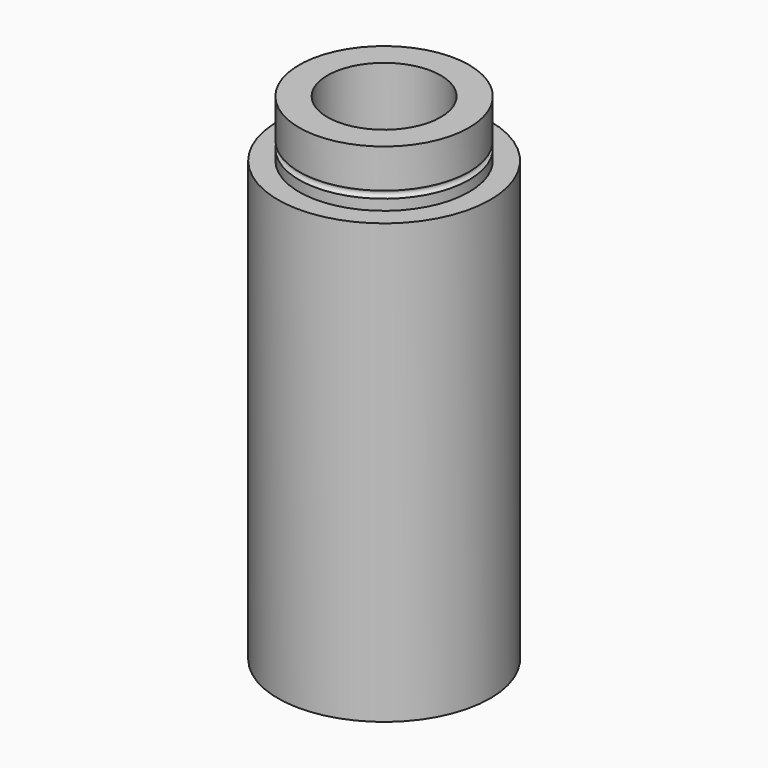
from build123d import *


with BuildPart() as f1:
    # F0 (on Front) → F1 (revolve)
    with BuildSketch(Plane.XZ):
        with BuildLine():
            Line((7.5, -35), (7.5, -4))
            Line((7.5, -4), (6, -4))
            Line((6, -4), (6, -3.25))
            ThreePointArc((6, -3.25), (5.75, -3), (6, -2.75))
            Line((6, -2.75), (6, 0))
            Line((6, 0), (4, 0))
            Line((4, 0), (4, -33))
            Line((4, -33), (2.75, -33))
            Line((2.75, -33), (2.75, -35))
            Line((2.75, -35), (7.5, -35))
        make_face()
    revolve(axis=Axis((0, 0, -21.924183), (0, 0, -1)))


solid = f1.part
